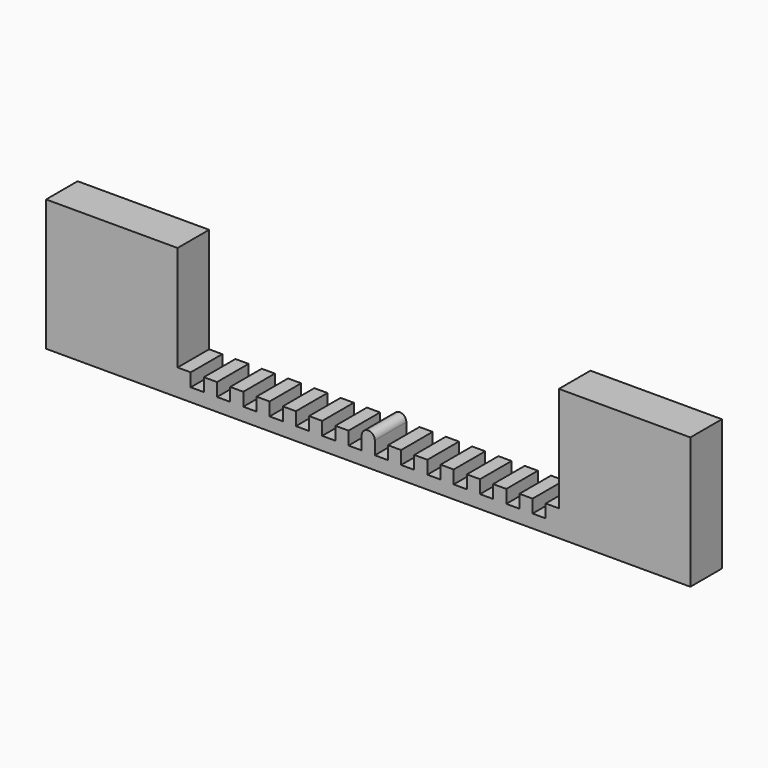
from build123d import *

# Parameters (mm, degrees)
F0_W     = 1
F0_H     = 1
F1_DEPTH = 3


with BuildPart() as f1:
    # F0 (on Front) → F1 (new body)
    with BuildSketch(Plane.XZ):
        Polygon((-57.750295, 1), (-57.750295, 0), (-28.750295, 0), (-28.750295, 1), (-29.750295, 1), (-30.750295, 1), (-31.750295, 1), (-32.750295, 1), (-33.750295, 1), (-34.750295, 1), (-35.750295, 1), (-36.750295, 1), (-37.750295, 1), (-38.750295, 1), (-39.750295, 1), (-40.750295, 1), (-41.750295, 1), (-42.750295, 1), (-43.750295, 1), (-44.750295, 1), (-45.750295, 1), (-46.750295, 1), (-47.750295, 1), (-48.750295, 1), (-49.750295, 1), (-50.750295, 1), (-51.750295, 1), (-52.750295, 1), (-53.750295, 1), (-54.750295, 1), (-55.750295, 1), (-56.750295, 1), align=None)
        Polygon((-67.750295, 0), (-57.750295, 0), (-57.750295, 1), (-57.750295, 2), (-57.750295, 10), (-67.750295, 10), align=None)
        Polygon((-28.750295, 1), (-28.750295, 0), (-18.750295, 0), (-18.750295, 10), (-28.750295, 10), (-28.750295, 2), align=None)
        with Locations((-57.250295, 1.5)):
            Rectangle(F0_W, F0_H)
        with Locations((-29.250295, 1.5)):
            Rectangle(F0_W, F0_H)
        with Locations((-55.250295, 1.5)):
            Rectangle(F0_W, F0_H)
        with Locations((-31.250295, 1.5)):
            Rectangle(F0_W, F0_H)
        with Locations((-53.250295, 1.5)):
            Rectangle(F0_W, F0_H)
        with Locations((-33.250295, 1.5)):
            Rectangle(F0_W, F0_H)
        with Locations((-51.250295, 1.5)):
            Rectangle(F0_W, F0_H)
        with Locations((-35.250295, 1.5)):
            Rectangle(F0_W, F0_H)
        with Locations((-49.250295, 1.5)):
            Rectangle(F0_W, F0_H)
        with Locations((-37.250295, 1.5)):
            Rectangle(F0_W, F0_H)
        with Locations((-47.250295, 1.5)):
            Rectangle(F0_W, F0_H)
        with Locations((-39.250295, 1.5)):
            Rectangle(F0_W, F0_H)
        with Locations((-45.250295, 1.5)):
            Rectangle(F0_W, F0_H)
        with Locations((-41.250295, 1.5)):
            Rectangle(F0_W, F0_H)
        with Locations((-43.250295, 1.5)):
            Rectangle(F0_W, F0_H)
        with BuildLine():
            ThreePointArc((-42.750295, 2), (-43.250295, 2.5), (-43.750295, 2))
            Line((-43.750295, 2), (-42.750295, 2))
        make_face()
    extrude(amount=F1_DEPTH)


solid = f1.part
